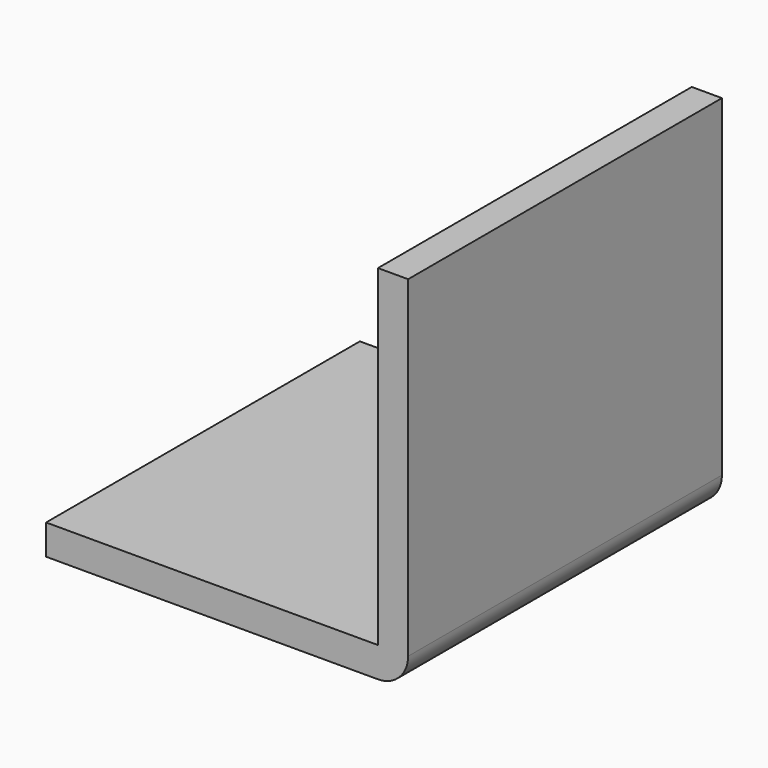
from build123d import *

# Parameters (mm, degrees)
F0_W     = 69.85
F0_H     = 82.55
F1_DEPTH = 6.35
F2_W     = 82.55
F2_H     = 6.35
F3_ANGLE = -90
F4_W     = 6.35
F4_H     = 82.55
F5_DEPTH = 69.85


with BuildPart() as f1:
    # F0 (on Top) → F1 (new body)
    with BuildSketch(Plane.XY):
        with Locations((34.925, 41.275)):
            Rectangle(F0_W, F0_H)
    extrude(amount=F1_DEPTH)

    # F2 (on face) → F3 (revolve)
    with BuildSketch(Plane.YZ.offset(69.85)):
        with Locations((41.275, 3.175)):
            Rectangle(F2_W, F2_H)
    revolve(axis=Axis((69.85, 41.275, 6.35), (0, 1, 0)), revolution_arc=F3_ANGLE)

    # F4 (on face) → F5 (join)
    with BuildSketch(Plane.XY.offset(6.35)):
        with Locations((73.025, 41.275)):
            Rectangle(F4_W, F4_H)
    extrude(amount=F5_DEPTH)


solid = f1.part
